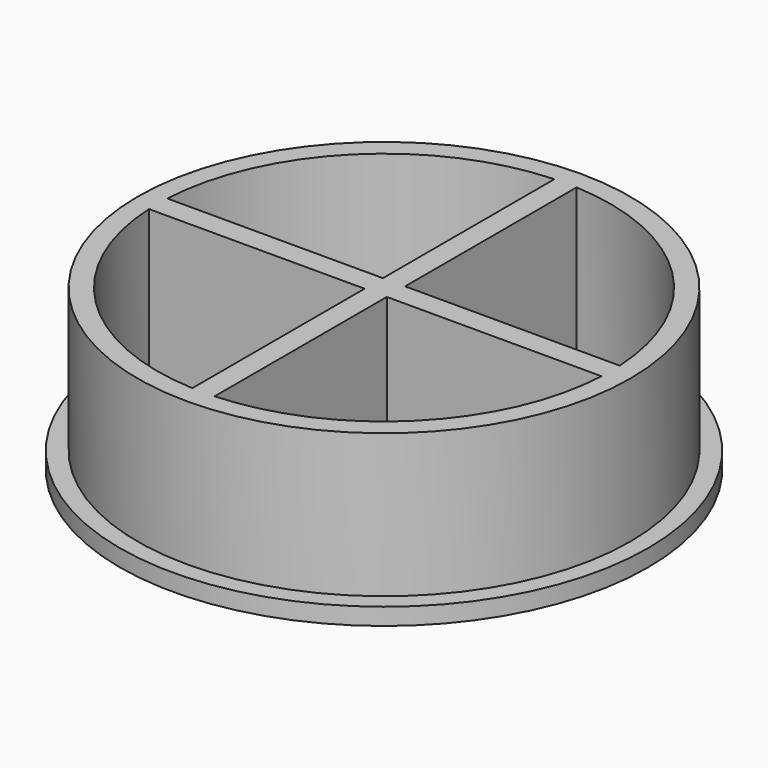
from build123d import *

# Parameters (mm, degrees)
F0_R     = 46.75
F1_DEPTH = 3
F2_R     = 43.6
F3_DEPTH = 25.4
F4_R     = 37.1
F4_R_2   = 36.1
F4_R_3   = 18.5
F4_R_4   = 17.5
F5_DEPTH = 1
F7_DEPTH = 25.4
F8_R     = 6.375059
F9_DEPTH = 3.001


with BuildPart() as f1:
    # F0 (on Top) → F1 (new body)
    with BuildSketch(Plane.XY):
        Circle(F0_R)
    extrude(amount=F1_DEPTH)

    # F2 (on face) → F3 (join)
    with BuildSketch(Plane.XY.offset(3)):
        Circle(F2_R)
    extrude(amount=F3_DEPTH)

    # F4 (on face) → F5 (cut)
    with BuildSketch(Plane(origin=(0, 0, 0), x_dir=(1, 0, 0), z_dir=(0, 0, -1))):
        Circle(F4_R)
        Circle(F4_R_2, mode=Mode.SUBTRACT)
        Circle(F4_R_3)
        Circle(F4_R_4, mode=Mode.SUBTRACT)
    extrude(amount=-F5_DEPTH, mode=Mode.SUBTRACT)

    # F6 (on face) → F7 (cut, through all)
    with BuildSketch(Plane.XY.offset(28.4)):
        with BuildLine():
            Line((-1.884867, -40.050467), (-1.884867, -1.939485))
            Line((-1.884867, -1.939485), (-40.047859, -1.939485))
            ThreePointArc((-40.047859, -1.939485), (-28.331963, -28.370627), (-1.884867, -40.050467))
        make_face()
        with BuildLine():
            Line((-40.039012, 2.114258), (-1.884867, 2.114258))
            Line((-1.884867, 2.114258), (-1.884867, 40.050467))
            ThreePointArc((-1.884867, 40.050467), (-28.269982, 28.432388), (-40.039012, 2.114258))
        make_face()
        with BuildLine():
            Line((2.048553, 40.042428), (2.048553, 2.114258))
            Line((2.048553, 2.114258), (40.039012, 2.114258))
            ThreePointArc((40.039012, 2.114258), (28.32803, 28.374554), (2.048553, 40.042428))
        make_face()
        with BuildLine():
            Line((40.047859, -1.939485), (2.048553, -1.939485))
            Line((2.048553, -1.939485), (2.048553, -40.042428))
            ThreePointArc((2.048553, -40.042428), (28.389884, -28.312666), (40.047859, -1.939485))
        make_face()
    extrude(amount=-F7_DEPTH, mode=Mode.SUBTRACT)

    # F8 (on face) → F9 (cut, through all)
    with BuildSketch(Plane.XY.offset(3)):
        with Locations((-16.523598, 16.523598)):
            Circle(F8_R)
        with Locations((16.523598, 16.523598)):
            Circle(F8_R)
        with Locations((16.523598, -16.523598)):
            Circle(F8_R)
        with Locations((-16.523598, -16.523598)):
            Circle(F8_R)
    extrude(amount=-F9_DEPTH, mode=Mode.SUBTRACT)


solid = f1.part
